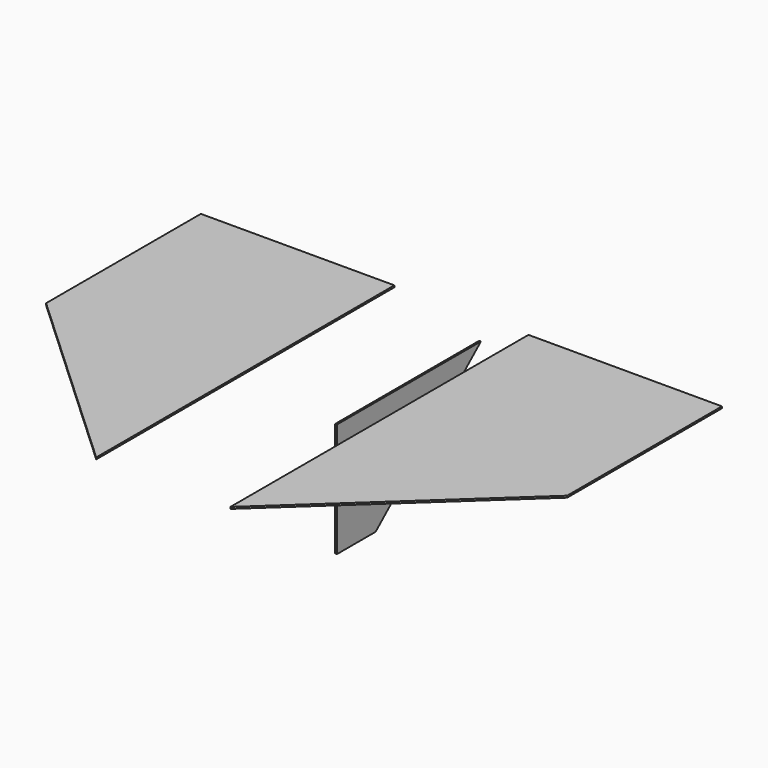
from build123d import *

# Parameters (mm, degrees)
F0_W     = 27.432
F0_H     = 27.432
F1_DEPTH = 0.254
F3_DEPTH = 0.254


with BuildPart() as f1:
    # F0 (on Top) → F1 (new body)
    with BuildSketch(Plane.XY):
        with Locations((-27.145754, 8.172617)):
            Rectangle(F0_W, F0_H)
        Polygon((-13.429754, -5.543383), (-40.861754, -5.543383), (-13.429754, -30.943383), align=None)
        with Locations((19.302111, 8.172617)):
            Rectangle(F0_W, F0_H)
        Polygon((33.018111, -5.543383), (5.586111, -5.543383), (5.586111, -30.943383), (19.302111, -18.243383), align=None)
    extrude(amount=-F1_DEPTH)


with BuildPart() as f3:
    # F2 (on Right) → F3 (new body)
    with BuildSketch(Plane.YZ):
        Polygon((20.12627, -1.843953), (-5.386352, -1.843953), (-5.386352, -18.020494), (1.467636, -18.020494), align=None)
    extrude(amount=F3_DEPTH)


solid = Compound([f1.part, f3.part])
